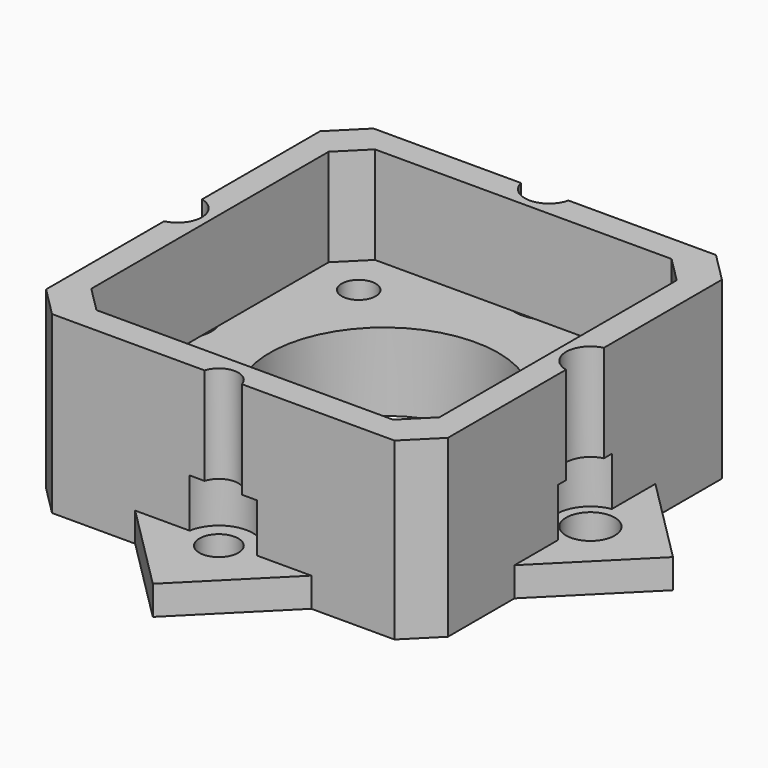
from build123d import *

# Parameters (mm, degrees)
F4_DEPTH  = 18
F2_R      = 1.75
F2_R_2    = 11.75
F5_DEPTH  = 8
F3_R      = 2
F3_R_2    = 1.75
F3_R_3    = 2.5
F3_R_4    = 11.75
F6_DEPTH  = 3
F7_DEPTH  = 18
F8_R      = 4.5
F8_R_2    = 1.75
F9_DEPTH  = 5
F10_DEPTH = 5
F11_R     = 3.5
F12_DEPTH = 5
F13_DEPTH = 5
F14_DEPTH = 5


with BuildPart() as f4:
    # F1 (on Top) → F4 (new body)
    with BuildSketch(Plane.XY):
        Polygon((-17.59793, 20.648238), (-20.648238, 17.59793), (-20.648238, -17.59793), (-17.59793, -20.648238), (17.59793, -20.648238), (20.648238, -17.59793), (20.648238, 17.59793), (17.59793, 20.648238), align=None)
        Polygon((-15.243323, -17.885499), (-17.885499, -15.243323), (-17.885499, 15.243323), (-15.243323, 17.885499), (15.243323, 17.885499), (17.885499, 15.243323), (17.885499, -15.243323), (15.243323, -17.885499), align=None, mode=Mode.SUBTRACT)
    extrude(amount=F4_DEPTH)

    # F2 (on Top) → F5 (join)
    with BuildSketch(Plane.XY):
        Polygon((-15.243323, 17.885499), (-17.885499, 15.243323), (-17.885499, -15.243323), (-15.243323, -17.885499), (15.243323, -17.885499), (17.885499, -15.243323), (17.885499, 15.243323), (15.243323, 17.885499), align=None)
        with Locations((-13, -13)):
            Circle(F2_R, mode=Mode.SUBTRACT)
        with Locations((13, -13)):
            Circle(F2_R, mode=Mode.SUBTRACT)
        Circle(F2_R_2, mode=Mode.SUBTRACT)
        with Locations((-13, 13)):
            Circle(F2_R, mode=Mode.SUBTRACT)
        with Locations((13, 13)):
            Circle(F2_R, mode=Mode.SUBTRACT)
    extrude(amount=F5_DEPTH)

    # F3 (on Top) → F6 (join)
    with BuildSketch(Plane.XY):
        Polygon((-29.698485, 0), (0, -29.698485), (29.698485, 0), (0, 29.698485), align=None)
        with Locations((0, -21.213203)):
            Circle(F3_R, mode=Mode.SUBTRACT)
        with Locations((-13, -13)):
            Circle(F3_R_2, mode=Mode.SUBTRACT)
        with Locations((13, -13)):
            Circle(F3_R_2, mode=Mode.SUBTRACT)
        with Locations((-21.213203, 0)):
            Circle(F3_R_3, mode=Mode.SUBTRACT)
        Circle(F3_R_4, mode=Mode.SUBTRACT)
        with Locations((-13, 13)):
            Circle(F3_R_2, mode=Mode.SUBTRACT)
        with Locations((0, 21.213203)):
            Circle(F3_R_3, mode=Mode.SUBTRACT)
        with Locations((13, 13)):
            Circle(F3_R_2, mode=Mode.SUBTRACT)
        with Locations((21.213203, 0)):
            Circle(F3_R_3, mode=Mode.SUBTRACT)
    extrude(amount=F6_DEPTH)

    # F3 (on Top) → F7 (cut)
    with BuildSketch(Plane.XY):
        with Locations((21.213203, 0)):
            Circle(F3_R_3)
        with Locations((0, 21.213203)):
            Circle(F3_R_3)
        with Locations((0, -21.213203)):
            Circle(F3_R)
        with Locations((-21.213203, 0)):
            Circle(F3_R_3)
    extrude(amount=F7_DEPTH, mode=Mode.SUBTRACT)

    # F8 (on face) + F2 (on Top) → F9 (cut)
    with BuildSketch(Plane(origin=(0, 0, 0), x_dir=(1, 0, 0), z_dir=(0, 0, -1))):
        with Locations((-13, -13)):
            Circle(F8_R)
        with Locations((-13, -13)):
            Circle(F8_R_2, mode=Mode.SUBTRACT)
    with BuildSketch(Plane.XY):
        with Locations((-13, 13)):
            Circle(F2_R)
    extrude(amount=-F9_DEPTH, mode=Mode.SUBTRACT)

    # F8 (on face) + F2 (on Top) → F10 (cut)
    with BuildSketch(Plane(origin=(0, 0, 0), x_dir=(1, 0, 0), z_dir=(0, 0, -1))):
        with Locations((13, 13)):
            Circle(F8_R)
        with Locations((13, 13)):
            Circle(F8_R_2, mode=Mode.SUBTRACT)
    with BuildSketch(Plane.XY):
        with Locations((13, -13)):
            Circle(F2_R)
    extrude(amount=-F10_DEPTH, mode=Mode.SUBTRACT)

    # F11 (on face) → F12 (cut)
    with BuildSketch(Plane.XY.offset(3)):
        with Locations((0, 21.213203)):
            Circle(F11_R)
        with Locations((0, -21.213203)):
            Circle(F11_R)
        with Locations((21.213203, 0)):
            Circle(F11_R)
        with Locations((-21.213203, 0)):
            Circle(F11_R)
    extrude(amount=F12_DEPTH, mode=Mode.SUBTRACT)

    # F8 (on face) → F13 (cut)
    with BuildSketch(Plane(origin=(0, 0, 0), x_dir=(1, 0, 0), z_dir=(0, 0, -1))):
        with Locations((13, -13)):
            Circle(F8_R)
        with Locations((13, -13)):
            Circle(F8_R_2, mode=Mode.SUBTRACT)
    extrude(amount=-F13_DEPTH, mode=Mode.SUBTRACT)

    # F8 (on face) → F14 (cut)
    with BuildSketch(Plane(origin=(0, 0, 0), x_dir=(1, 0, 0), z_dir=(0, 0, -1))):
        with Locations((-13, 13)):
            Circle(F8_R)
        with Locations((-13, 13)):
            Circle(F8_R_2, mode=Mode.SUBTRACT)
    extrude(amount=-F14_DEPTH, mode=Mode.SUBTRACT)


solid = f4.part
